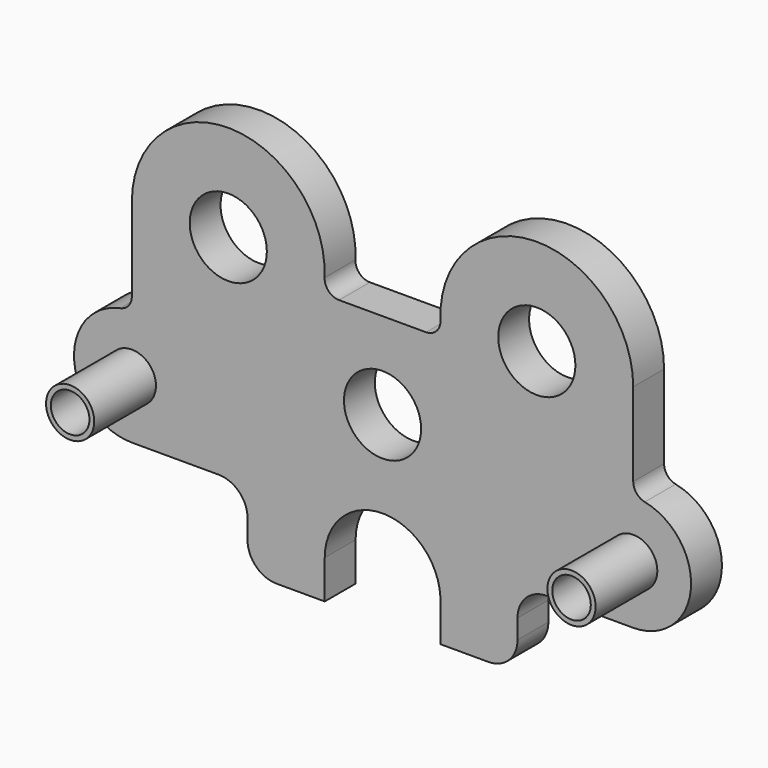
from build123d import *

# Parameters (mm, degrees)
F0_R     = 7.9375
F0_R_2   = 12.7
F0_R_3   = 6.35
F1_DEPTH = 6.35
F2_DEPTH = 31.75


with BuildPart() as f1:
    # F0 (on Front) → F1 (new body, symmetric)
    with BuildSketch(Plane.XZ):
        with BuildLine():
            ThreePointArc((82.55, -7.463384), (50.109619, 24.279109), (19.080024, -8.843819))
            ThreePointArc((19.080024, -8.843819), (17.762053, -12.344458), (14.322027, -13.813384))
            Line((14.322027, -13.813384), (0, -13.813384))
            Line((0, -13.813384), (-14.322027, -13.813384))
            ThreePointArc((-14.322027, -13.813384), (-17.762053, -12.344458), (-19.080024, -8.843819))
            ThreePointArc((-19.080024, -8.843819), (-50.109619, 24.279109), (-82.55, -7.463384))
            Line((-82.55, -7.463384), (-82.55, -34.931994))
            ThreePointArc((-82.55, -34.931994), (-83.623483, -37.944063), (-86.36, -39.598272))
            ThreePointArc((-86.36, -39.598272), (-101.503534, -60.17808), (-82.55, -77.313384))
            Line((-82.55, -77.313384), (-53.975, -77.313384))
            ThreePointArc((-53.975, -77.313384), (-47.239808, -80.103192), (-44.45, -86.838384))
            Line((-44.45, -86.838384), (-44.45, -93.188384))
            ThreePointArc((-44.45, -93.188384), (-41.660192, -99.923576), (-34.925, -102.713384))
            Line((-34.925, -102.713384), (-19.030211, -102.713384))
            Line((-19.030211, -102.713384), (-19.030211, -90.013384))
            ThreePointArc((-19.030211, -90.013384), (-0.516209, -70.970926), (19.039627, -88.941812))
            Line((19.039627, -88.941812), (19.030211, -102.713384))
            Line((19.030211, -102.713384), (34.925, -102.713384))
            ThreePointArc((34.925, -102.713384), (41.660192, -99.923576), (44.45, -93.188384))
            Line((44.45, -93.188384), (44.45, -86.838384))
            ThreePointArc((44.45, -86.838384), (47.239808, -80.103192), (53.975, -77.313384))
            Line((53.975, -77.313384), (82.55, -77.313384))
            ThreePointArc((82.55, -77.313384), (101.503534, -60.17808), (86.36, -39.598272))
            ThreePointArc((86.36, -39.598272), (83.623483, -37.944063), (82.55, -34.931994))
            Line((82.55, -34.931994), (82.55, -7.463384))
        make_face()
        with Locations((-82.55, -58.263384)):
            Circle(F0_R, mode=Mode.SUBTRACT)
        with Locations((0, -42.388384)):
            Circle(F0_R_2, mode=Mode.SUBTRACT)
        with Locations((82.55, -58.263384)):
            Circle(F0_R, mode=Mode.SUBTRACT)
        with Locations((-50.8, -7.463384)):
            Circle(F0_R_2, mode=Mode.SUBTRACT)
        with Locations((50.8, -7.463384)):
            Circle(F0_R_2, mode=Mode.SUBTRACT)
        with Locations((82.55, -58.263384)):
            Circle(F0_R)
        with Locations((82.55, -58.263384)):
            Circle(F0_R_3, mode=Mode.SUBTRACT)
        with Locations((-82.55, -58.263384)):
            Circle(F0_R)
        with Locations((-82.55, -58.263384)):
            Circle(F0_R_3, mode=Mode.SUBTRACT)
    extrude(amount=F1_DEPTH, both=True)

    # F0 (on Front) → F2 (join)
    with BuildSketch(Plane.XZ):
        with Locations((-82.55, -58.263384)):
            Circle(F0_R)
        with Locations((-82.55, -58.263384)):
            Circle(F0_R_3, mode=Mode.SUBTRACT)
        with Locations((82.55, -58.263384)):
            Circle(F0_R)
        with Locations((82.55, -58.263384)):
            Circle(F0_R_3, mode=Mode.SUBTRACT)
    extrude(amount=F2_DEPTH)


solid = f1.part
